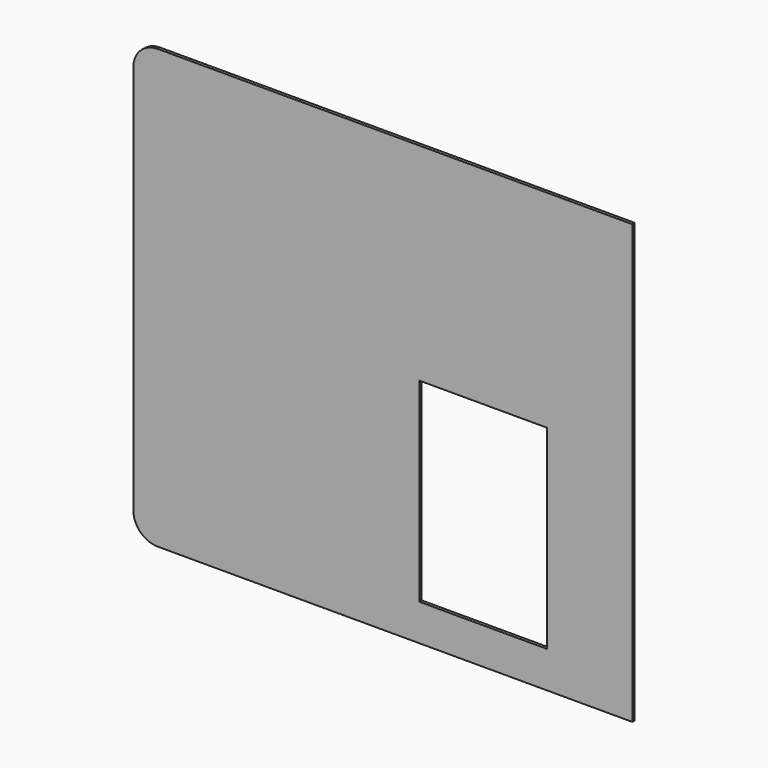
from build123d import *

# Parameters (mm, degrees)
F0_W     = 66.675
F0_H     = 101.6
F1_DEPTH = 0.79375


with BuildPart() as f1:
    # F0 (on Front) → F1 (new body, symmetric)
    with BuildSketch(Plane.XZ):
        with BuildLine():
            Line((117.475, 114.3), (-117.475, 114.3))
            ThreePointArc((-117.475, 114.3), (-126.455256, 110.580256), (-130.175, 101.6))
            Line((-130.175, 101.6), (-130.175, -101.6))
            ThreePointArc((-130.175, -101.6), (-126.455256, -110.580256), (-117.475, -114.3))
            Line((-117.475, -114.3), (117.475, -114.3))
            Line((117.475, -114.3), (130.175, -114.3))
            Line((130.175, -114.3), (130.175, -101.6))
            Line((130.175, -101.6), (130.175, 101.6))
            Line((130.175, 101.6), (130.175, 114.3))
            Line((130.175, 114.3), (117.475, 114.3))
        make_face()
        with Locations((52.3875, -44.45)):
            Rectangle(F0_W, F0_H, mode=Mode.SUBTRACT)
    extrude(amount=F1_DEPTH, both=True)


solid = f1.part
